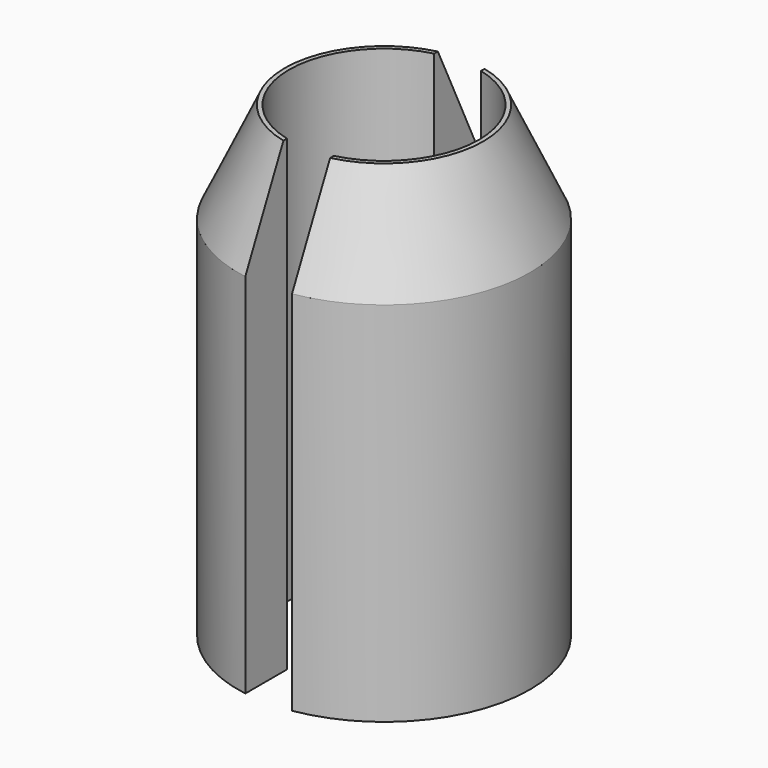
from build123d import *

# Parameters (mm, degrees)
F0_R       = 2.5
F0_R_2     = 1.625
F1_DEPTH   = 8
F2_W       = 0.8
F2_H       = 6.0208404261
F3_DEPTH   = 25
F4_SIZE2   = 0.8
F4_SIZE    = 1.7156055364
F4_2_SIZE2 = 0.8
F4_2_SIZE  = 1.7156055364


with BuildPart() as f1:
    # F0 (on Top) → F1 (new body)
    with BuildSketch(Plane.XY):
        Circle(F0_R)
        Circle(F0_R_2, mode=Mode.SUBTRACT)
    extrude(amount=F1_DEPTH)

    # F2 (on Top) → F3 (cut)
    with BuildSketch(Plane.XY):
        with Locations((0, -0.0632625306)):
            Rectangle(F2_W, F2_H)
    extrude(amount=F3_DEPTH, mode=Mode.SUBTRACT)

    # F4
    f4_edges = [f1.edges().sort_by_distance(p)[0] for p in [
        (2.5, 0, 8),
    ]]
    f4_side = f1.faces().sort_by_distance((2.5, 0, 4))[0]
    chamfer(f4_edges, length=F4_SIZE, length2=F4_SIZE2, reference=f4_side)

    # F4#2
    f4_2_edges = [f1.edges().sort_by_distance(p)[0] for p in [
        (-2.5, 0, 8),
    ]]
    f4_2_side = f1.faces().sort_by_distance((-2.5, 0, 4))[0]
    chamfer(f4_2_edges, length=F4_2_SIZE, length2=F4_2_SIZE2, reference=f4_2_side)


solid = f1.part
